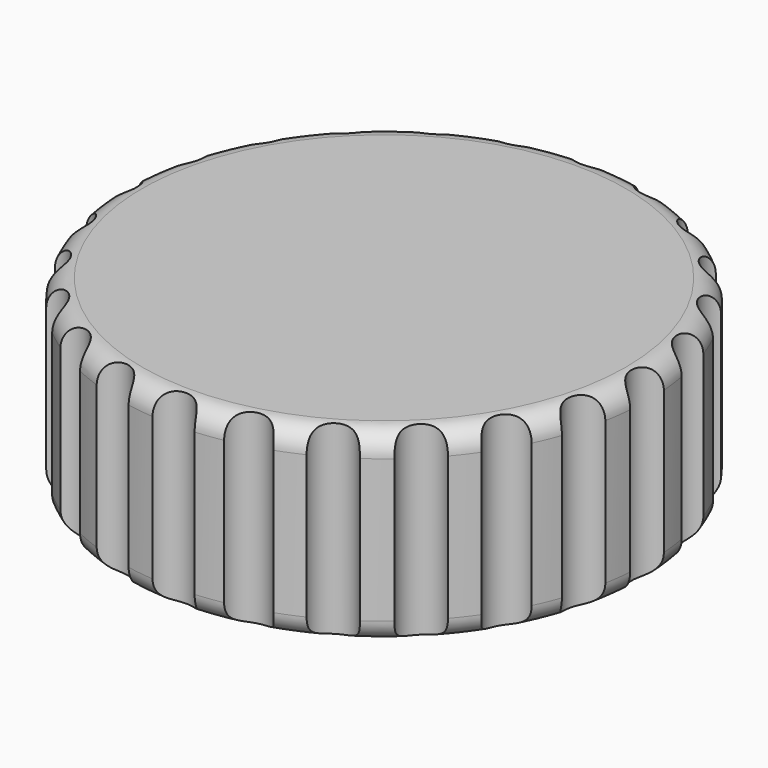
from build123d import *

# Parameters (mm, degrees)
SKETCH_R           = 12
PAD_DEPTH          = 14
SKETCH010_R        = 15
POCKET_DEPTH       = 5.5
FILLET_R           = 1
FILLET001_R        = 1
POCKET001_DEPTH    = 78.479568
POLARPATTERN_COUNT = 24
POCKET002_DEPTH    = 3.5


with BuildPart() as part:
    # Sketch → Pad (new body)
    with BuildSketch(Plane.XY):
        Circle(SKETCH_R)
    extrude(amount=PAD_DEPTH)

    # Sketch010 → Pocket (cut)
    with BuildSketch(Plane.XY.offset(14)):
        Circle(SKETCH010_R)
    extrude(amount=-POCKET_DEPTH, mode=Mode.SUBTRACT)

    # Fillet
    fillet_edges = [part.edges().sort_by_distance(p)[0] for p in [
        (-12, 0, 8.5),
    ]]
    fillet(fillet_edges, radius=FILLET_R)

    # Fillet001
    fillet001_edges = [part.edges().sort_by_distance(p)[0] for p in [
        (-12, 0, 0),
    ]]
    fillet(fillet001_edges, radius=FILLET001_R)

    # Sketch004 → Pocket001 (cut, through all)
    with BuildSketch(Plane(origin=(0, 0, 0), x_dir=(1, 0, 0), z_dir=(0, 0, -1))):
        with BuildLine():
            ThreePointArc((1, 13.25), (0, 14.25), (-1, 13.25))
            Line((-1, 13.25), (-1, 12.25))
            ThreePointArc((-1, 12.25), (0, 11.25), (1, 12.25))
            Line((1, 13.25), (1, 12.25))
        make_face()
    pocket001 = extrude(amount=-POCKET001_DEPTH, mode=Mode.SUBTRACT)

    # PolarPattern: Pocket001 ×24 about axis
    polarpattern_axis = Axis((0, 0, 0), (0, 0, -1))
    for i in range(1, POLARPATTERN_COUNT):
        add(pocket001.rotate(polarpattern_axis, i * 360 / POLARPATTERN_COUNT), mode=Mode.SUBTRACT)

    # Sketch003 → Pocket002 (cut)
    with BuildSketch(Plane(origin=(0, 0, 0), x_dir=(1, 0, 0), z_dir=(0, 0, -1))):
        with BuildLine():
            ThreePointArc((-1.747141, 2.5), (0, -3.05), (1.747141, 2.5))
            Line((1.747141, 2.5), (-1.747141, 2.5))
        make_face()
    extrude(amount=-POCKET002_DEPTH, mode=Mode.SUBTRACT)


solid = part.part
